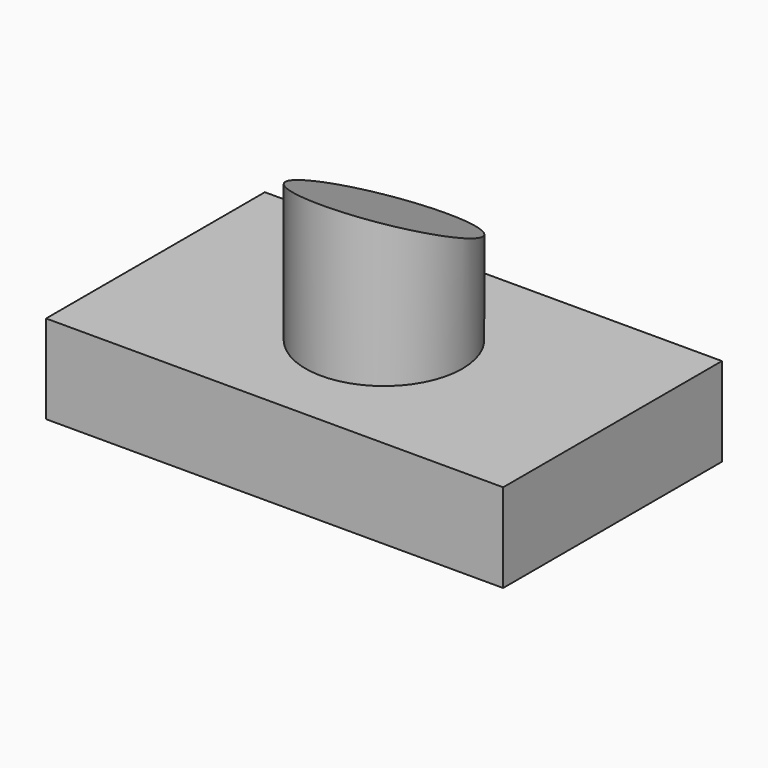
from build123d import *

# Parameters (mm, degrees)
F0_W     = 130.9254616499
F0_H     = 78.3314704895
F1_DEPTH = 25.4
F2_R     = 22.4537347063
F3_DEPTH = 45.466
F5_DEPTH = 38.1


with BuildPart() as f1:
    # F0 (on Top) → F1 (new body)
    with BuildSketch(Plane.XY):
        Rectangle(F0_W, F0_H)
    extrude(amount=F1_DEPTH)

    # F2 (on face) → F3 (join)
    with BuildSketch(Plane.XY.offset(25.4)):
        Circle(F2_R)
    extrude(amount=F3_DEPTH)

    # F4 (on Right) → F5 (cut, symmetric)
    with BuildSketch(Plane.YZ):
        Polygon((39.7252477705, 72.1768513322), (-29.9338120967, 71.8970969319), (39.7252477705, 40.2847565711), align=None)
    extrude(amount=F5_DEPTH, both=True, mode=Mode.SUBTRACT)


solid = f1.part
